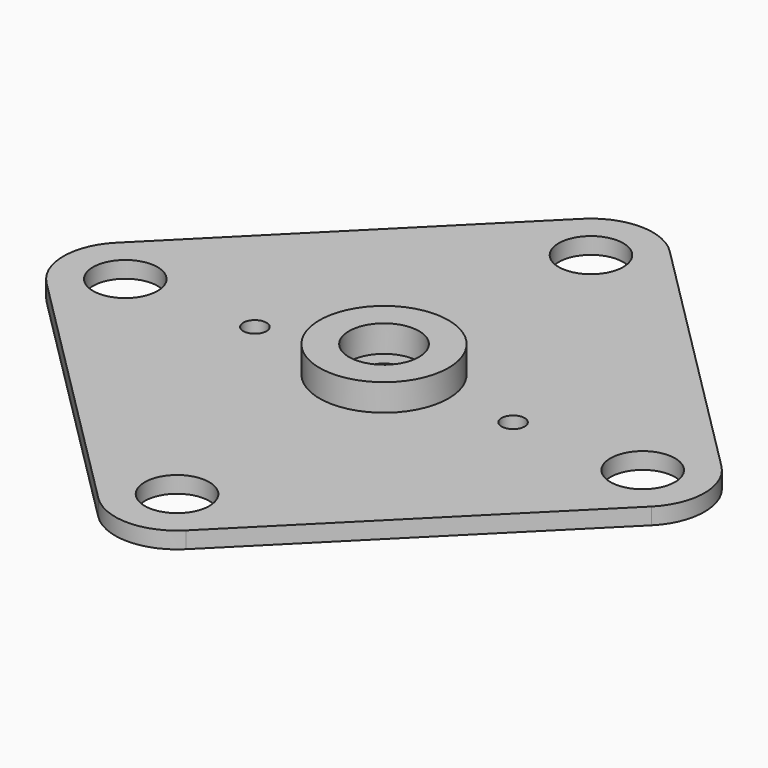
from build123d import *

# Parameters (mm, degrees)
F0_R     = 3
F0_R_2   = 1.075
F0_R_3   = 1.75
F1_DEPTH = 1.54
F2_R     = 6
F2_R_2   = 3.26
F3_DEPTH = 2.5


with BuildPart() as f1:
    # F0 (on Top) → F1 (new body)
    with BuildSketch(Plane.XY):
        with BuildLine():
            Line((28.115864, 4.065864), (4.065864, 28.115864))
            ThreePointArc((4.065864, 28.115864), (0, 29.8), (-4.065864, 28.115864))
            Line((-4.065864, 28.115864), (-28.115864, 4.065864))
            ThreePointArc((-28.115864, 4.065864), (-29.8, 0), (-28.115864, -4.065864))
            Line((-28.115864, -4.065864), (-4.065864, -28.115864))
            ThreePointArc((-4.065864, -28.115864), (0, -29.8), (4.065864, -28.115864))
            Line((4.065864, -28.115864), (28.115864, -4.065864))
            ThreePointArc((28.115864, -4.065864), (29.8, 0), (28.115864, 4.065864))
        make_face()
        with Locations((-24.05, 0)):
            Circle(F0_R, mode=Mode.SUBTRACT)
        with Locations((-12, 0)):
            Circle(F0_R_2, mode=Mode.SUBTRACT)
        with Locations((0, -24.05)):
            Circle(F0_R, mode=Mode.SUBTRACT)
        Circle(F0_R_3, mode=Mode.SUBTRACT)
        with Locations((12, 0)):
            Circle(F0_R_2, mode=Mode.SUBTRACT)
        with Locations((24.05, 0)):
            Circle(F0_R, mode=Mode.SUBTRACT)
        with Locations((0, 24.05)):
            Circle(F0_R, mode=Mode.SUBTRACT)
    extrude(amount=F1_DEPTH)

    # F2 (on face) → F3 (join)
    with BuildSketch(Plane.XY.offset(1.54)):
        Circle(F2_R)
        Circle(F2_R_2, mode=Mode.SUBTRACT)
    extrude(amount=F3_DEPTH)


solid = f1.part
